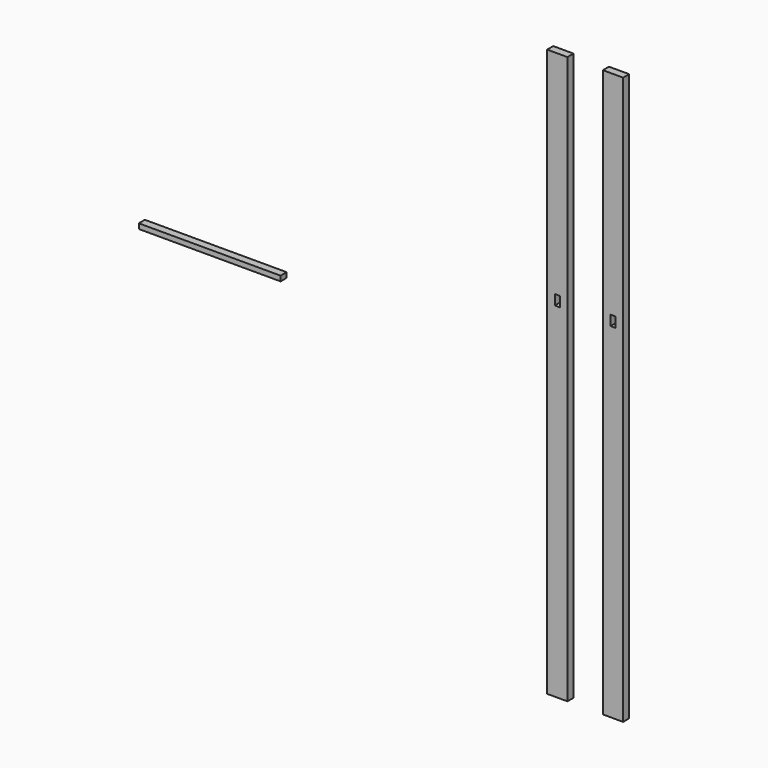
from build123d import *

# Parameters (mm, degrees)
F0_W     = 12.7
F0_H     = 25.4
F0_W_2   = 355.6
F0_H_2   = 12.7
F1_DEPTH = 19.05


with BuildPart() as f1:
    # F0 (on Front) → F1 (new body)
    with BuildSketch(Plane.XZ):
        Polygon((57.15, 546.1), (57.15, 12.7), (57.15, -12.7), (57.15, -876.3), (107.95, -876.3), (107.95, -12.7), (107.95, 12.7), (107.95, 546.1), align=None)
        with Locations((82.55, 0)):
            Rectangle(F0_W, F0_H, mode=Mode.SUBTRACT)
        Polygon((-31.75, 546.1), (-82.55, 546.1), (-82.55, 12.7), (-82.55, -12.7), (-82.55, -876.3), (-31.75, -876.3), (-31.75, -12.7), (-31.75, 12.7), align=None)
        with Locations((-57.15, 0)):
            Rectangle(F0_W, F0_H, mode=Mode.SUBTRACT)
        with Locations((-928.829968, -176.771949)):
            Rectangle(F0_W_2, F0_H_2)
    extrude(amount=F1_DEPTH)


solid = f1.part
